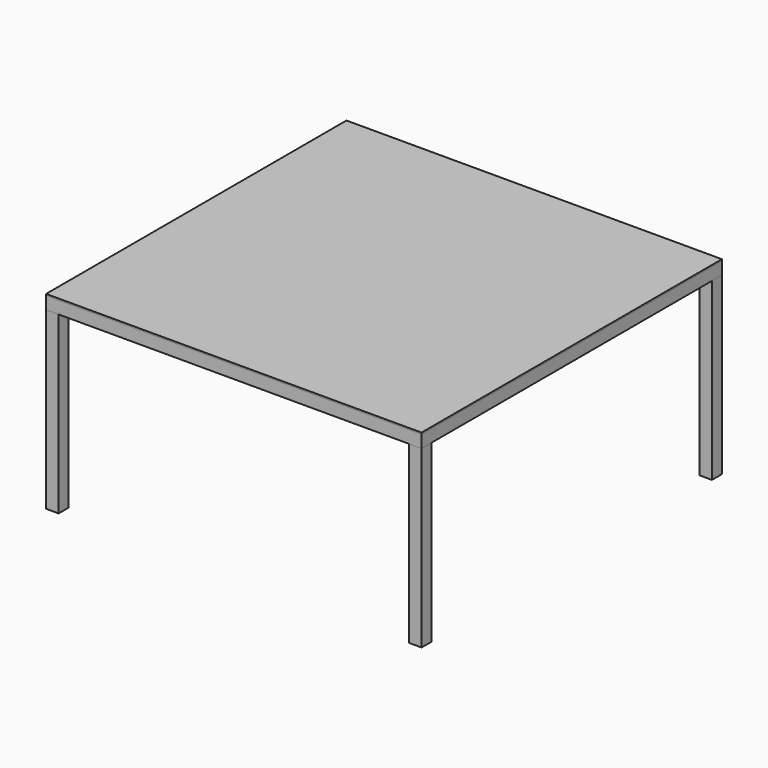
from build123d import *

# Parameters (mm, degrees)
F0_W     = 10
F0_H     = 10
F0_W_2   = 7
F0_H_2   = 7
F1_DEPTH = 140
F3_W     = 10
F3_H     = 10
F3_W_2   = 7
F3_H_2   = 7
F5_W     = 300
F5_H     = 300
F6_DEPTH = 1.2


with BuildPart() as f1:
    # F0 (on Top) → F1 (new body)
    with BuildSketch(Plane.XY):
        with Locations((-145, 145)):
            Rectangle(F0_W, F0_H)
        with Locations((-145, 145)):
            Rectangle(F0_W_2, F0_H_2, mode=Mode.SUBTRACT)
    extrude(amount=F1_DEPTH)


with BuildPart() as f1b:
    # F0 (on Top) → F1, piece 2 (new body)
    with BuildSketch(Plane.XY):
        with Locations((145, 145)):
            Rectangle(F0_W, F0_H)
        with Locations((145, 145)):
            Rectangle(F0_W_2, F0_H_2, mode=Mode.SUBTRACT)
    extrude(amount=F1_DEPTH)


with BuildPart() as f1c:
    # F0 (on Top) → F1, piece 3 (new body)
    with BuildSketch(Plane.XY):
        with Locations((145, -145)):
            Rectangle(F0_W, F0_H)
        with Locations((145, -145)):
            Rectangle(F0_W_2, F0_H_2, mode=Mode.SUBTRACT)
    extrude(amount=F1_DEPTH)


with BuildPart() as f1d:
    # F0 (on Top) → F1, piece 4 (new body)
    with BuildSketch(Plane.XY):
        with Locations((-145, -145)):
            Rectangle(F0_W, F0_H)
        with Locations((-145, -145)):
            Rectangle(F0_W_2, F0_H_2, mode=Mode.SUBTRACT)
    extrude(amount=F1_DEPTH)


with BuildPart() as f4:
    # F4: sweep along a path in F2
    with BuildLine(Plane.XY.offset(140)) as f4_path:
        Line((-150, -150), (150, -150))
        Line((150, -150), (150, 150))
        Line((150, 150), (-150, 150))
        Line((-150, 150), (-150, -150))
    # F3 (on Right) → F4 (sweep)
    with BuildSketch(Plane.YZ):
        with Locations((-145, 145)):
            Rectangle(F3_W, F3_H)
        with Locations((-145, 145)):
            Rectangle(F3_W_2, F3_H_2, mode=Mode.SUBTRACT)
    sweep(path=f4_path.line, transition=Transition.RIGHT)


with BuildPart() as f6:
    # F5 (on face) → F6 (new body)
    with BuildSketch(Plane.XY.offset(150)):
        Rectangle(F5_W, F5_H)
    extrude(amount=F6_DEPTH)


solid = Compound([f1.part, f1b.part, f1c.part, f1d.part, f4.part, f6.part])
